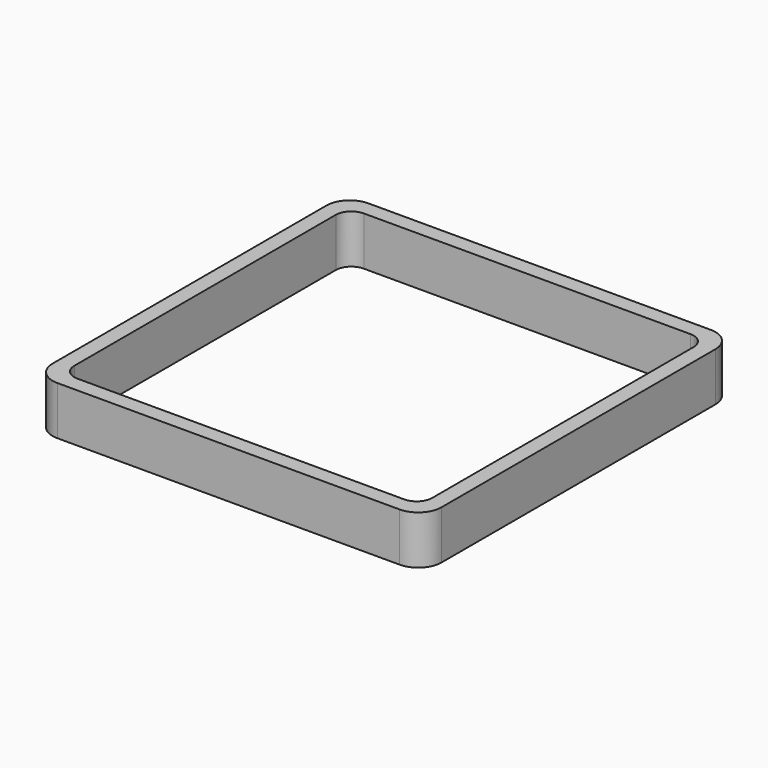
from build123d import *

# Parameters (mm, degrees)
EXTRUDE_DEPTH = 50


with BuildPart() as part:
    # Sketch → Extrude (new body)
    with BuildSketch(Plane.XY):
        with BuildLine():
            Line((-176, 200), (176, 200))
            ThreePointArc((200, 176), (192.970563, 192.970563), (176, 200))
            Line((200, 176), (200, -176))
            ThreePointArc((176, -200), (192.970563, -192.970563), (200, -176))
            Line((176, -200), (-176, -200))
            ThreePointArc((-200, -176), (-192.970563, -192.970563), (-176, -200))
            Line((-200, -176), (-200, 176))
            ThreePointArc((-176, 200), (-192.970563, 192.970563), (-200, 176))
        make_face()
        with BuildLine():
            Line((-168, 184), (168, 184))
            ThreePointArc((184, 168), (179.313708, 179.313708), (168, 184))
            Line((184, 168), (184, -168))
            ThreePointArc((168, -184), (179.313708, -179.313708), (184, -168))
            Line((168, -184), (-168, -184))
            ThreePointArc((-184, -168), (-179.313708, -179.313708), (-168, -184))
            Line((-184, -168), (-184, 168))
            ThreePointArc((-168, 184), (-179.313708, 179.313708), (-184, 168))
        make_face(mode=Mode.SUBTRACT)
    extrude(amount=EXTRUDE_DEPTH)


solid = part.part
